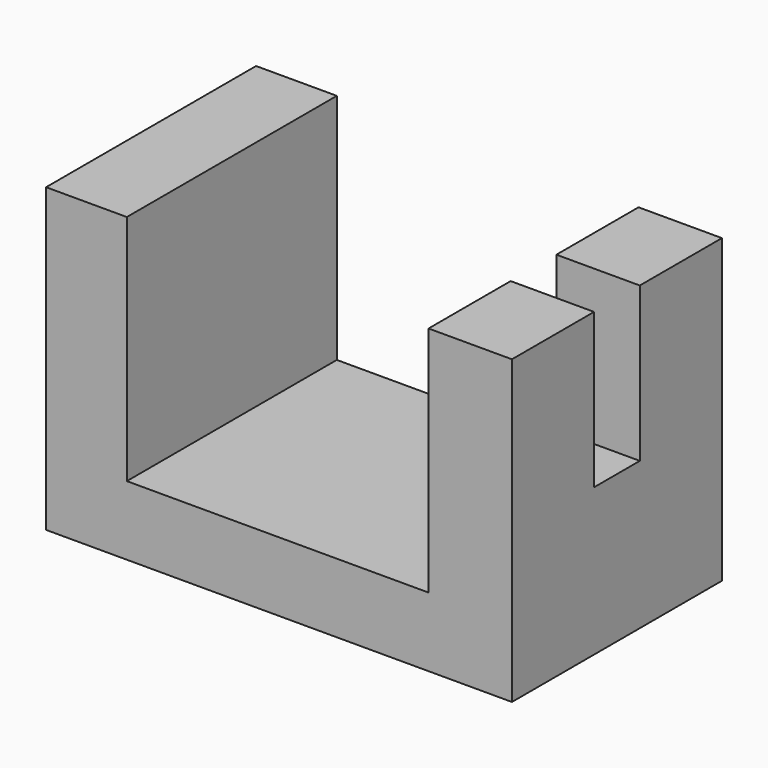
from build123d import *

# Parameters (mm, degrees)
F1_DEPTH = 43.18
F2_W     = 13.722286
F2_H     = 9.405698
F3_DEPTH = 25.4


with BuildPart() as f1:
    # F0 (on Front) → F1 (new body)
    with BuildSketch(Plane.XZ):
        Polygon((0, 49.633805), (0, 0), (76.640435, 0), (76.640435, 49.633805), (62.918149, 49.633805), (62.918149, 11.386576), (38.320217, 11.386576), (13.284341, 11.386576), (13.284341, 49.633805), align=None)
    extrude(amount=F1_DEPTH)

    # F2 (on face) → F3 (cut)
    with BuildSketch(Plane.XY.offset(49.633805)):
        with Locations((69.779292, -21.59)):
            Rectangle(F2_W, F2_H)
    extrude(amount=-F3_DEPTH, mode=Mode.SUBTRACT)


solid = f1.part
